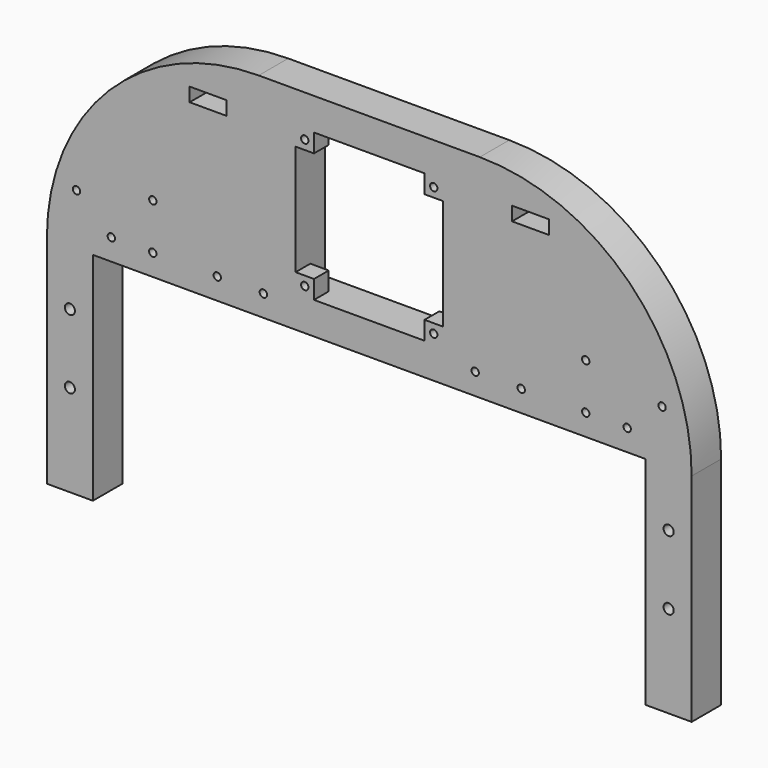
from build123d import *

# Parameters (mm, degrees)
PAD012_DEPTH    = 8
POCKET_DEPTH    = 8.001
SKETCH049_R     = 2.1
HOLE017_DEPTH   = 13.738193
HOLE017_TIPS_R  = 2.1
SKETCH053_W     = 32
SKETCH053_H     = 32
POCKET016_DEPTH = 4
SKETCH054_R     = 0.8
HOLE020_DEPTH   = 25
SKETCH055_W     = 8
SKETCH055_H     = 3
POCKET017_DEPTH = 8.001
SKETCH056_R     = 0.8
HOLE021_DEPTH   = 25
SKETCH058_R     = 1.1
HOLE022_DEPTH   = 25


with BuildPart() as part:
    # Sketch045 → Pad012 (new body)
    with BuildSketch(Plane.XZ):
        with BuildLine():
            Line((-70, 0), (-70, 47))
            ThreePointArc((-24, 93), (-56.526912, 79.526912), (-70, 47))
            Line((-24, 93), (24, 93))
            ThreePointArc((70, 47), (56.526912, 79.526912), (24, 93))
            Line((70, 47), (70, 0))
            Line((70, 0), (60, 0))
            Line((60, 0), (60, 47))
            Line((60, 47), (-60, 47))
            Line((-60, 47), (-60, 0))
            Line((-60, 0), (-70, 0))
        make_face()
    extrude(amount=PAD012_DEPTH)

    # Sketch046 → Pocket (cut, through all)
    with BuildSketch(Plane.XZ):
        Polygon((-12, 82), (-12, 86), (12, 86), (12, 82), (16, 82), (16, 58), (12, 58), (12, 54), (-12, 54), (-12, 58), (-16, 58), (-16, 82), align=None)
    extrude(amount=POCKET_DEPTH, mode=Mode.SUBTRACT)

    # Sketch049 → Hole017 (cut)
    with BuildSketch(Plane(origin=(0, 0, 0), x_dir=(1, 0, 0), z_dir=(0, 0, -1))):
        with Locations((-65, 4)):
            Circle(SKETCH049_R)
        with Locations((65, 4)):
            Circle(SKETCH049_R)
    extrude(amount=-HOLE017_DEPTH, mode=Mode.SUBTRACT)

    # Hole017 tips → Hole017 tip 1 section 0
    with BuildSketch(Plane(origin=(0, 0, 13.738193), x_dir=(1, 0, 0), z_dir=(0, 0, -1)), mode=Mode.PRIVATE) as hole017_tip_1_s0:
        with Locations((-65, 4)):
            Circle(HOLE017_TIPS_R)
    loft([hole017_tip_1_s0.sketch, Vertex(-65, -4, 15)], mode=Mode.SUBTRACT)

    # Hole017 tips → Hole017 tip 2 section 0
    with BuildSketch(Plane(origin=(0, 0, 13.738193), x_dir=(1, 0, 0), z_dir=(0, 0, -1)), mode=Mode.PRIVATE) as hole017_tip_2_s0:
        with Locations((65, 4)):
            Circle(HOLE017_TIPS_R)
    loft([hole017_tip_2_s0.sketch, Vertex(65, -4, 15)], mode=Mode.SUBTRACT)

    # Sketch053 (on Face4 of Hole017) → Pocket016 (cut)
    with BuildSketch(Plane(origin=(0, 0, 0), x_dir=(1, 0, 0), z_dir=(0, 1, 0))):
        with Locations((0, -70)):
            Rectangle(SKETCH053_W, SKETCH053_H)
    extrude(amount=-POCKET016_DEPTH, mode=Mode.SUBTRACT)

    # Sketch054 (on Face4 of Pocket016) → Hole020 (cut)
    with BuildSketch(Plane(origin=(0, 0, 0), x_dir=(1, 0, 0), z_dir=(0, 1, 0))):
        with Locations((-14, -84)):
            Circle(SKETCH054_R)
        with Locations((14, -84)):
            Circle(SKETCH054_R)
        with Locations((-14, -56)):
            Circle(SKETCH054_R)
        with Locations((14, -56)):
            Circle(SKETCH054_R)
    extrude(amount=-HOLE020_DEPTH, mode=Mode.SUBTRACT)

    # Sketch055 (on Face4 of Hole020) → Pocket017 (cut, through all)
    with BuildSketch(Plane(origin=(0, 0, 0), x_dir=(1, 0, 0), z_dir=(0, 1, 0))):
        with Locations((-35, -84.5)):
            Rectangle(SKETCH055_W, SKETCH055_H)
        with Locations((35, -84.5)):
            Rectangle(SKETCH055_W, SKETCH055_H)
    extrude(amount=-POCKET017_DEPTH, mode=Mode.SUBTRACT)

    # Sketch056 (on Face4 of Pocket017) → Hole021 (cut)
    with BuildSketch(Plane(origin=(0, 0, 0), x_dir=(1, 0, 0), z_dir=(0, 1, 0))):
        with Locations((-33, -51.65)):
            Circle(SKETCH056_R)
        with Locations((-23, -51.65)):
            Circle(SKETCH056_R)
        with Locations((23, -51.65)):
            Circle(SKETCH056_R)
        with Locations((33, -51.65)):
            Circle(SKETCH056_R)
        with Locations((-47, -51.65)):
            Circle(SKETCH056_R)
        with Locations((-47, -61.65)):
            Circle(SKETCH056_R)
        with Locations((47, -51.65)):
            Circle(SKETCH056_R)
        with Locations((47, -61.65)):
            Circle(SKETCH056_R)
        with Locations((-63.57, -58.19)):
            Circle(SKETCH056_R)
        with Locations((-56, -51.65)):
            Circle(SKETCH056_R)
        with Locations((56, -51.65)):
            Circle(SKETCH056_R)
        with Locations((63.57, -58.19)):
            Circle(SKETCH056_R)
    extrude(amount=-HOLE021_DEPTH, mode=Mode.SUBTRACT)

    # Sketch058 (on Face4 of Hole021) → Hole022 (cut)
    with BuildSketch(Plane(origin=(0, 0, 0), x_dir=(1, 0, 0), z_dir=(0, 1, 0))):
        with Locations((65, -35)):
            Circle(SKETCH058_R)
        with Locations((65, -20)):
            Circle(SKETCH058_R)
        with Locations((-65, -35)):
            Circle(SKETCH058_R)
        with Locations((-65, -20)):
            Circle(SKETCH058_R)
    extrude(amount=-HOLE022_DEPTH, mode=Mode.SUBTRACT)


with BuildPart() as part_1:
    # Body006021005 placement: moved
    add(part.part.moved(Location((0, -82.56, 8))))


solid = part_1.part
